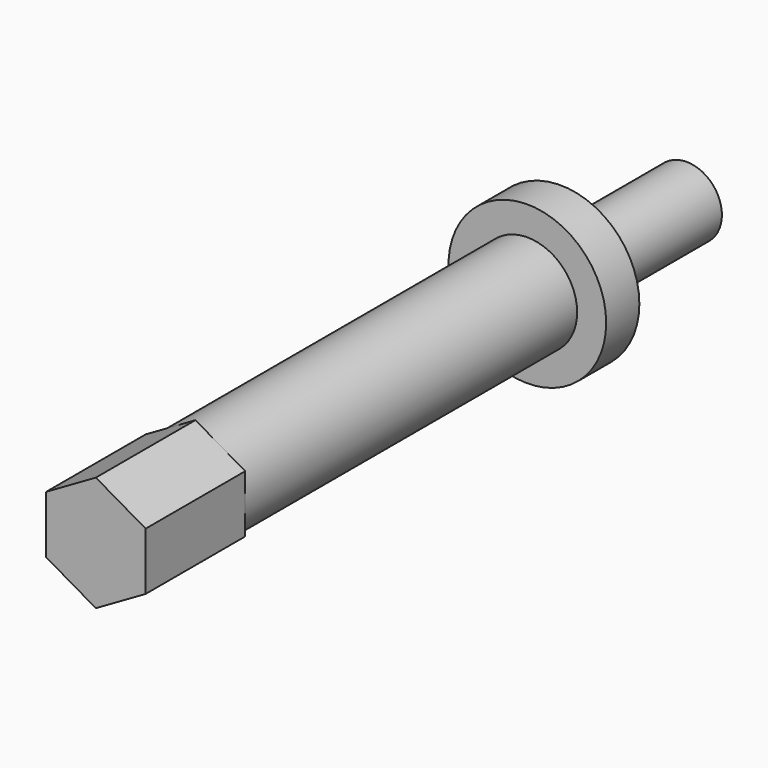
from build123d import *

# Parameters (mm, degrees)
F0_R     = 4.25
F1_DEPTH = 19
F2_R     = 9.5
F2_R_2   = 4.25
F3_DEPTH = 5
F4_R     = 6
F5_DEPTH = 50
F7_DEPTH = 15


with BuildPart() as f1:
    # F0 (on Front) → F1 (new body)
    with BuildSketch(Plane.XZ):
        Circle(F0_R)
    extrude(amount=F1_DEPTH)

    # F2 (on face) → F3 (join)
    with BuildSketch(Plane.XZ.offset(19)):
        Circle(F2_R)
        Circle(F2_R_2, mode=Mode.SUBTRACT)
        Circle(F2_R_2)
    extrude(amount=F3_DEPTH)

    # F4 (on face) → F5 (join)
    with BuildSketch(Plane.XZ.offset(24)):
        Circle(F4_R)
    extrude(amount=F5_DEPTH)

    # F6 (on face) → F7 (join)
    with BuildSketch(Plane.XZ.offset(74)):
        Polygon((6, -3.4641016151), (6, 3.4641016151), (0, 6.9282032303), (-6, 3.4641016151), (-6, -3.4641016151), (0, -6.9282032303), align=None)
    extrude(amount=F7_DEPTH)


solid = f1.part
